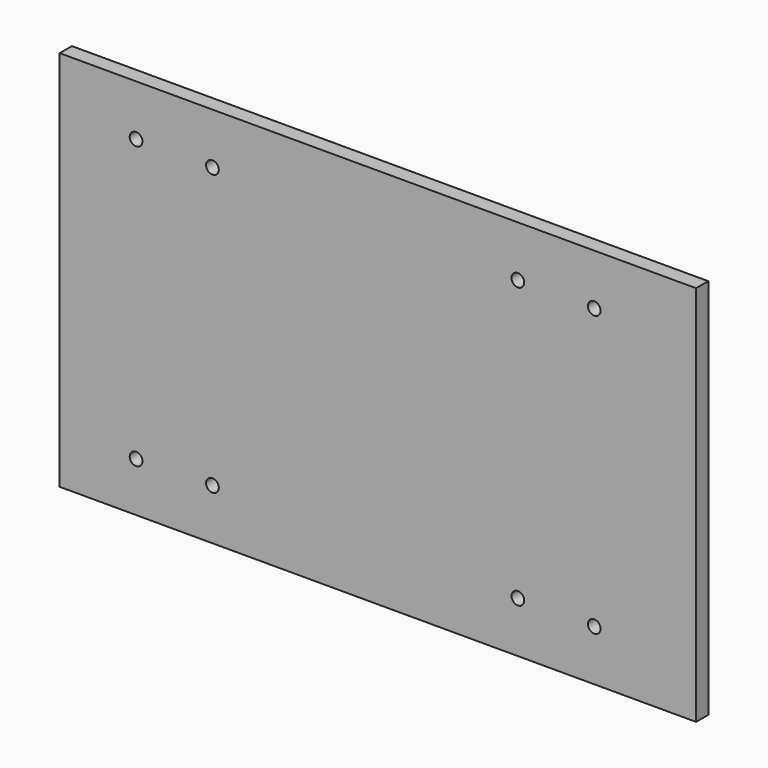
from build123d import *

# Parameters (mm, degrees)
F1_W     = 250
F1_H     = 150
F1_R     = 2.5
F2_DEPTH = 6


with BuildPart() as f2:
    # F1 (on face) → F2 (new body)
    with BuildSketch(Plane.XZ):
        Rectangle(F1_W, F1_H)
        with Locations((-95, -55.575613)):
            Circle(F1_R, mode=Mode.SUBTRACT)
        with Locations((-65, -55)):
            Circle(F1_R, mode=Mode.SUBTRACT)
        with Locations((55, -55)):
            Circle(F1_R, mode=Mode.SUBTRACT)
        with Locations((85, -55)):
            Circle(F1_R, mode=Mode.SUBTRACT)
        with Locations((-95, 55)):
            Circle(F1_R, mode=Mode.SUBTRACT)
        with Locations((-65, 55)):
            Circle(F1_R, mode=Mode.SUBTRACT)
        with Locations((55, 55)):
            Circle(F1_R, mode=Mode.SUBTRACT)
        with Locations((85, 55)):
            Circle(F1_R, mode=Mode.SUBTRACT)
    extrude(amount=F2_DEPTH)


solid = f2.part
